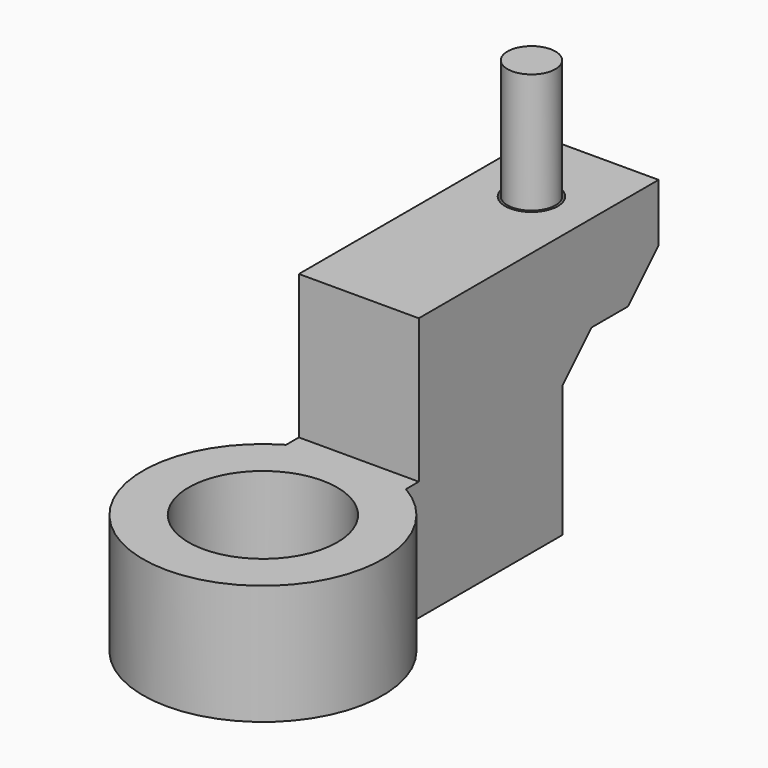
from build123d import *

# Parameters (mm, degrees)
CYLINDER_R        = 2
CYLINDER_DEPTH    = 10
BOX001_W          = 10
BOX001_H          = 16
BOX001_DEPTH      = 10
BOX002_W          = 10
BOX002_H          = 15
BOX002_DEPTH      = 22
BOX_W             = 10
BOX_H             = 10
BOX_DEPTH         = 8
CYLINDER001_R     = 10
CYLINDER001_DEPTH = 10
SKETCH_R          = 2.2
POCKET_DEPTH      = 14
SKETCH001_R       = 3.75
POCKET001_DEPTH   = 4
CHAMFER_SIZE      = 3.2
CHAMFER001_SIZE   = 3
SKETCH002_R       = 6.2
POCKET002_DEPTH   = 14


with BuildPart() as cylinder:
    # Cylinder → Cylinder (new body)
    with BuildSketch(Plane.XY):
        Circle(CYLINDER_R)
    extrude(amount=CYLINDER_DEPTH)


with BuildPart() as box001:
    # Box001 → Box001 (new body)
    with BuildSketch(Plane(origin=(-5, -20, -22), x_dir=(1, 0, 0), z_dir=(0, 0, 1))):
        with Locations((5, 8)):
            Rectangle(BOX001_W, BOX001_H)
    extrude(amount=BOX001_DEPTH)


with BuildPart() as box002:
    # Box002 → Box002 (new body)
    with BuildSketch(Plane(origin=(-5, -18, -22), x_dir=(1, 0, 0), z_dir=(0, 0, 1))):
        with Locations((5, 7.5)):
            Rectangle(BOX002_W, BOX002_H)
    extrude(amount=BOX002_DEPTH)


with BuildPart() as box:
    # Box → Box (new body)
    with BuildSketch(Plane(origin=(-5, -3, -8), x_dir=(1, 0, 0), z_dir=(0, 0, 1))):
        with Locations((5, 5)):
            Rectangle(BOX_W, BOX_H)
    extrude(amount=BOX_DEPTH)


with BuildPart() as pocket002:
    # Cylinder001 → Cylinder001 (new body)
    with BuildSketch(Plane(origin=(0, -28, -22), x_dir=(1, 0, 0), z_dir=(0, 0, 1))):
        Circle(CYLINDER001_R)
    extrude(amount=CYLINDER001_DEPTH)

    # Fusion: union Box001, Box002, Box
    add(box001.part)
    add(box002.part)
    add(box.part)

    # Sketch → Pocket (cut)
    with BuildSketch(Plane.XY):
        Circle(SKETCH_R)
    extrude(amount=-POCKET_DEPTH, mode=Mode.SUBTRACT)

    # Sketch001 → Pocket001 (cut, symmetric)
    with BuildSketch(Plane(origin=(0, 0, -8), x_dir=(1, 0, 0), z_dir=(0, 0, -1))):
        Circle(SKETCH001_R)
    extrude(amount=POCKET001_DEPTH, both=True, mode=Mode.SUBTRACT)

    # Chamfer
    chamfer_edges = [pocket002.edges().sort_by_distance(p)[0] for p in [
        (0, 7, -8),
    ]]
    chamfer(chamfer_edges, length=CHAMFER_SIZE)

    # Chamfer001
    chamfer001_edges = [pocket002.edges().sort_by_distance(p)[0] for p in [
        (-3.625, -3, -8),
        (3.625, -3, -8),
    ]]
    chamfer(chamfer001_edges, length=CHAMFER001_SIZE)

    # Sketch002 → Pocket002 (cut)
    with BuildSketch(Plane(origin=(0, 0, -22), x_dir=(1, 0, 0), z_dir=(0, 0, -1))):
        with Locations((0, 28)):
            Circle(SKETCH002_R)
    extrude(amount=-POCKET002_DEPTH, mode=Mode.SUBTRACT)


solid = Compound([cylinder.part, pocket002.part])
